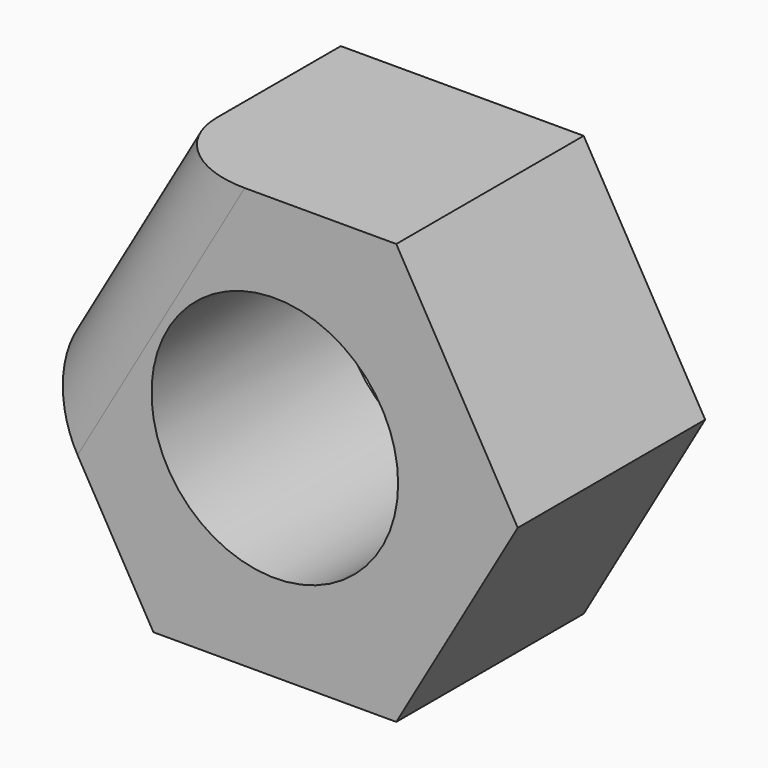
from build123d import *

# Parameters (mm, degrees)
F0_R     = 7.79
F1_DEPTH = 14.8
F2_R     = 5


with BuildPart() as f1:
    # F0 (on Front) → F1 (new body)
    with BuildSketch(Plane.XZ):
        Polygon((7.672985, 13.29), (-7.672985, 13.29), (-15.34597, 0), (-7.672985, -13.29), (7.672985, -13.29), (15.34597, 0), align=None)
        Circle(F0_R, mode=Mode.SUBTRACT)
    extrude(amount=F1_DEPTH)

    # F2
    f2_edges = [f1.edges().sort_by_distance(p)[0] for p in [
        (-11.509478, -14.8, 6.645),
    ]]
    fillet(f2_edges, radius=F2_R)


solid = f1.part
